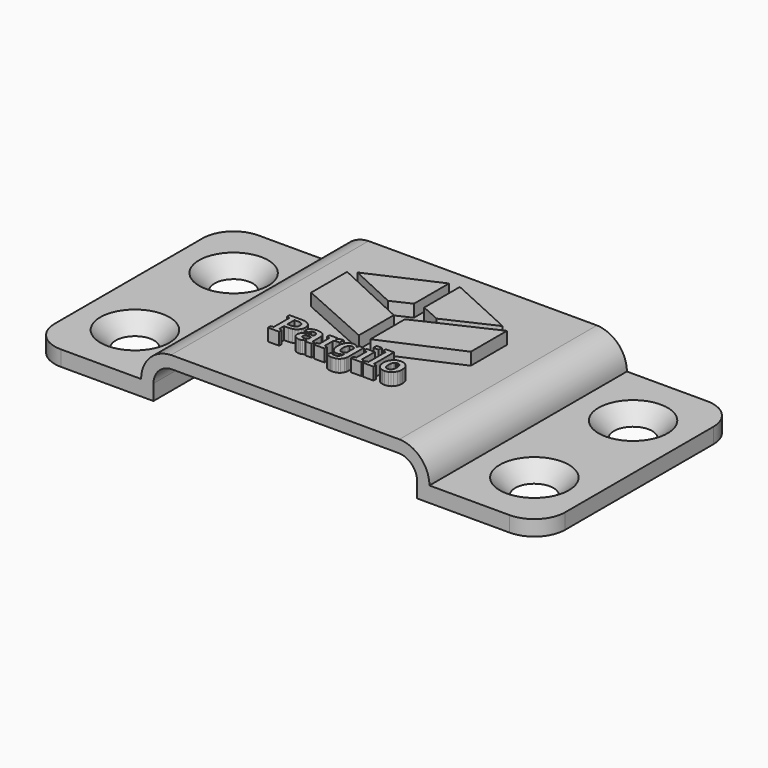
from build123d import *

# Parameters (mm, degrees)
F0_W           = 18.5
F0_H           = 2
F1_DEPTH       = 40
F2_DEPTH       = 27
F4_D           = 5
F4_CSINK_D     = 11.2
F4_CSINK_ANGLE = 90
F5_R           = 5
F6_W           = 0.8760371937
F6_H           = 0.6563073388
F7_DEPTH       = 2


with BuildPart() as f1:
    # F0 (on Front) → F1 (new body)
    with BuildSketch(Plane.XZ):
        Polygon((-23.3616464758, 2.5), (-41.3634078641, 2.5), (-41.3634078641, 0), (-21.3634078641, 0), (-21.3634078641, 2.5), align=None)
        with BuildLine():
            ThreePointArc((-18.5, 7.5), (-21.9387733601, 5.9800594319), (-23.3616464758, 2.5))
            Line((-23.3616464758, 2.5), (-21.3634078641, 2.5))
            ThreePointArc((-21.3634078641, 2.5), (-20.5256177107, 4.5668724614), (-18.5, 5.5))
            Line((-18.5, 5.5), (-18.5, 7.5))
        make_face()
        with Locations((-9.25, 6.5)):
            Rectangle(F0_W, F0_H)
        with Locations((9.25, 6.5)):
            Rectangle(F0_W, F0_H)
        with BuildLine():
            ThreePointArc((23.3616464758, 2.5), (21.9387733601, 5.9800594319), (18.5, 7.5))
            Line((18.5, 7.5), (18.5, 5.5))
            ThreePointArc((18.5, 5.5), (20.5256177107, 4.5668724614), (21.3634078641, 2.5))
            Line((21.3634078641, 2.5), (23.3616464758, 2.5))
        make_face()
        Polygon((41.3634078641, 2.5), (23.3616464758, 2.5), (21.3634078641, 2.5), (21.3634078641, 0), (41.3634078641, 0), align=None)
    extrude(amount=F1_DEPTH)

    # F0 (on Front) → F2 (join)
    with BuildSketch(Plane.XZ):
        Polygon((-23.3616464758, 2.5), (-41.3634078641, 2.5), (-41.3634078641, 0), (-21.3634078641, 0), (-21.3634078641, 2.5), align=None)
        with BuildLine():
            ThreePointArc((-18.5, 7.5), (-21.9387733601, 5.9800594319), (-23.3616464758, 2.5))
            Line((-23.3616464758, 2.5), (-21.3634078641, 2.5))
            ThreePointArc((-21.3634078641, 2.5), (-20.5256177107, 4.5668724614), (-18.5, 5.5))
            Line((-18.5, 5.5), (-18.5, 7.5))
        make_face()
        with Locations((-9.25, 6.5)):
            Rectangle(F0_W, F0_H)
        with Locations((9.25, 6.5)):
            Rectangle(F0_W, F0_H)
        with BuildLine():
            ThreePointArc((23.3616464758, 2.5), (21.9387733601, 5.9800594319), (18.5, 7.5))
            Line((18.5, 7.5), (18.5, 5.5))
            ThreePointArc((18.5, 5.5), (20.5256177107, 4.5668724614), (21.3634078641, 2.5))
            Line((21.3634078641, 2.5), (23.3616464758, 2.5))
        make_face()
        Polygon((41.3634078641, 2.5), (23.3616464758, 2.5), (21.3634078641, 2.5), (21.3634078641, 0), (41.3634078641, 0), align=None)
    extrude(amount=F2_DEPTH)

    # F4 (through all)
    with Locations(Plane.XY.offset(2.5)):
        with Locations((-32.3634078641, -10), (-32.3634078641, -30), (32.3634078641, -30), (32.3634078641, -10)):
            CounterSinkHole(F4_D / 2, F4_CSINK_D / 2, counter_sink_angle=F4_CSINK_ANGLE)

    # F5
    f5_edges = [f1.edges().sort_by_distance(p)[0] for p in [
        (-41.363408, -40, 1.25),
        (41.363408, -40, 1.25),
        (41.363408, 0, 1.25),
        (-41.363408, 0, 1.25),
    ]]
    fillet(f5_edges, radius=F5_R)

    # F6 (on face) → F7 (join)
    with BuildSketch(Plane.XY.offset(7.5)):
        Polygon((-0.9158704144, -16.8715334807), (-12.9485048711, -11.2815676831), (-12.9485048711, -18.5769462942), (-0.9158704144, -23.9458386161), align=None)
        Polygon((6.1759549685, -27.827179673), (6.1759549685, -27.8905106528), (6.2546259142, -28.4815371663), (6.3866091792, -28.8030950403), (6.582309848, -29.0822242776), (7.0011082866, -29.3983580362), (7.331355381, -29.5066843584), (7.7111781819, -29.5427919507), (8.2798523763, -29.4536272914), (8.5797421498, -29.3040351494), (8.831410473, -29.0822242776), (9.110330545, -28.6245423759), (9.2059048781, -28.2787390601), (9.2377653525, -27.8905106528), (9.2377653525, -27.827179673), (9.1590944069, -27.2378512976), (9.0271111418, -26.9165025888), (8.831410473, -26.6369053886), (8.4131686266, -26.3197825266), (8.0838539129, -26.211119413), (7.7054208201, -26.1748983751), (7.1347684188, -26.2646196266), (6.8342015172, -26.4151476944), (6.582309848, -26.638344729), (6.3033862308, -27.096888108), (6.2078118978, -27.4414967003), align=None)
        Polygon((7.0510314202, -27.8905106528), (7.0510314202, -27.827179673), (7.0812185727, -27.4779588099), (7.2069516969, -27.1224169025), (7.3802929563, -26.9350438463), (7.7054208201, -26.8494349961), (7.9706281609, -26.902286443), (8.2058078821, -27.1224169025), (8.3148077872, -27.3933851504), (8.3646068397, -27.827179673), (8.3646068397, -27.8905106528), (8.3341431636, -28.2451024537), (8.2072472226, -28.6010307851), (8.0336613462, -28.7864291796), (7.7111781819, -28.8711340106), (7.4419151625, -28.8191192247), (7.2069516969, -28.6024665803), (7.0999299986, -28.3322357286), align=None, mode=Mode.SUBTRACT)
        Polygon((4.1245154933, -25.3295659293), (4.5927584671, -25.4197586889), (4.5927584671, -28.8644159068), (4.1696101006, -28.9546086663), (4.1696101006, -29.479464516), (5.8909797401, -29.479464516), (5.8909797401, -28.9546086663), (5.4678349187, -28.8644159068), (5.4678349187, -24.8018349439), (4.1245154933, -24.8018349439), align=None)
        with Locations((3.0714482872, -25.1299886132)):
            Rectangle(F6_W, F6_H)
        Polygon((2.2112420659, -28.9546086663), (2.2112420659, -29.479464516), (3.9287722825, -29.479464516), (3.9287722825, -28.9546086663), (3.5094668841, -28.8644159068), (3.5094668841, -26.2353471288), (2.1661474587, -26.2353471288), (2.1661474587, -26.7630816594), (2.6334296904, -26.852313677), (2.6334296904, -28.8644159068), align=None)
        Polygon((-4.1522557782, -29.479464516), (-4.1522557782, -28.9546086663), (-4.4189981792, -28.9191072987), (-4.425205778, -28.86489096), (-4.4290735623, -28.7929310278), (-4.4300626657, -28.7331416764), (-4.4305129028, -28.6514041556), (-4.4305129028, -27.311920608), (-4.5034264866, -26.8799589401), (-4.8071237765, -26.4704275851), (-5.1822846742, -26.2675763013), (-5.7863077938, -26.1748983751), (-6.0973294121, -26.1963537652), (-6.4622837552, -26.2857204994), (-6.7217869119, -26.3931853444), (-7.0125655894, -26.5587024058), (-7.0154442703, -27.2783407244), (-6.3562582507, -27.2783407244), (-6.2986881779, -26.9309952582), (-6.2267211554, -26.891377944), (-6.1101416692, -26.8484777992), (-6.0009574151, -26.8247676787), (-5.8429171246, -26.8139336284), (-5.6357017322, -26.8389200114), (-5.4442410909, -26.9429885802), (-5.3517049716, -27.0767125255), (-5.3094287774, -27.3052060494), (-5.3094287774, -27.6237647066), (-5.7565602428, -27.6237647066), (-6.3128263299, -27.6718762565), (-6.8297764426, -27.8722778254), (-7.0810370709, -28.1310967636), (-7.1958333347, -28.5765619974), (-7.1414964601, -28.9337240491), (-6.9151761276, -29.2832427067), (-6.6302079895, -29.4613983118), (-6.1576399041, -29.5427919507), (-5.9168658991, -29.521244386), (-5.6466988605, -29.4314876828), (-5.4632928534, -29.3203535832), (-5.2672093059, -29.1407550925), (-5.2520359632, -29.2166572576), (-5.225471978, -29.3129902578), (-5.1998261927, -29.3875381666), (-5.1626231418, -29.479464516), align=None)
        Polygon((-5.7107282395, -28.8681879714), (-5.9215987058, -28.8951206546), (-6.0713042933, -28.8771005376), (-6.2161671738, -28.802045669), (-6.2892757422, -28.7062125383), (-6.3226748219, -28.5439393106), (-6.294809758, -28.3928794668), (-6.1787478672, -28.2301772732), (-6.026085605, -28.140604919), (-5.7565602428, -28.099682981), (-5.3094287774, -28.099682981), (-5.3094287774, -28.5947912797), (-5.4026384796, -28.6996716931), (-5.5612991755, -28.8092423712), align=None, mode=Mode.SUBTRACT)
        Polygon((0.7814771293, -5.6098430938), (0.7814771293, -12.827383875), (3.9023217428, -14.2198854926), (11.7041283916, -10.605208843), align=None)
        Polygon((-0.4320995806, -30.0122261027), (-0.6673005728, -29.9237208457), (-0.8294568098, -30.537808713), (-0.6153496, -30.6312559419), (-0.3194765082, -30.7225157987), (-0.0825702875, -30.7689469363), (0.2020220622, -30.7901612547), (0.7641199598, -30.7161344863), (1.0608864353, -30.5919399675), (1.3102610313, -30.4077930192), (1.5868767406, -30.0210642203), (1.6816604999, -29.7226350583), (1.7132550863, -29.3835143946), (1.7132550863, -26.2353471288), (0.9523615835, -26.2353471288), (0.8890341488, -26.6431413488), (0.7482340372, -26.464868753), (0.5354527224, -26.2962780262), (0.340578079, -26.2129629032), (0.0552164266, -26.1748983751), (-0.4231302916, -26.2660128798), (-0.6734656296, -26.4188772169), (-0.8817516644, -26.6455378861), (-1.1112768338, -27.1171984071), (-1.2161395214, -27.883792549), (-1.2161395214, -27.9471199836), (-1.1514046529, -28.5241820586), (-0.8817516644, -29.103335786), (-0.5366821996, -29.4049768752), (-0.2641859819, -29.5083399544), (0.0494590648, -29.5427919507), (0.259815481, -29.5242152414), (0.4961119318, -29.4468418293), (0.6580022807, -29.345499499), (0.8352999537, -29.1676204175), (0.8352999537, -29.3806357137), (0.8044640344, -29.6568543636), (0.6760188525, -29.9232387021), (0.5046451645, -30.0572675323), (0.1962647004, -30.1184997694), (-0.005026707, -30.1082825793), (-0.2475130308, -30.0657263163), align=None)
        Polygon((-0.3401058729, -27.9471199836), (-0.3401058729, -27.883792549), (-0.3114041481, -27.5138997791), (-0.1918608969, -27.1406497299), (-0.0280596994, -26.9453709368), (0.2768642204, -26.8561530999), (0.438155435, -26.8717554086), (0.6117342211, -26.93675262), (0.7235773554, -27.0204967089), (0.8352999537, -27.1641577756), (0.8352999537, -28.5736833165), (0.7504072286, -28.6847110609), (0.6117342211, -28.7881344081), (0.4772232473, -28.8385184142), (0.2711068586, -28.8615372259), (0.021289116, -28.8142623369), (-0.1961789182, -28.6173421284), (-0.2949687236, -28.3672478623), align=None, mode=Mode.SUBTRACT)
        Polygon((-8.7497396125, -25.1438768305), (-9.1446045847, -25.1136754973), (-10.7585093792, -25.1136754973), (-11.22291293, -25.1136754973), (-11.22291293, -25.6414064827), (-10.7585093792, -25.7316027875), (-10.7585093792, -28.8644159068), (-11.22291293, -28.9546086663), (-11.22291293, -29.479464516), (-9.4151899538, -29.479464516), (-9.4151899538, -28.9546086663), (-9.8824721855, -28.8644159068), (-9.8824721855, -27.8962644694), (-9.1446045847, -27.8962644694), (-8.5463600979, -27.8225177698), (-8.2293967687, -27.698794759), (-7.9620056009, -27.5153391196), (-7.6646435362, -27.1325667343), (-7.5627481588, -26.8394659681), (-7.5287853964, -26.5078504368), (-7.6126571116, -26.0051696475), (-7.7533650488, -25.733350558), (-7.9620056009, -25.4989188685), (-8.4044468017, -25.2344879206), align=None)
        Polygon((-9.1446045847, -27.2217278484), (-9.8824721855, -27.2217278484), (-9.8824721855, -25.7882121183), (-9.1446045847, -25.7882121183), (-8.8573569, -25.8279676941), (-8.5914476147, -25.9935485687), (-8.4626869124, -26.1954213846), (-8.4038618481, -26.5136077986), (-8.4401786057, -26.764318925), (-8.5914476147, -27.0221487598), (-8.7909806161, -27.159141355), align=None, mode=Mode.SUBTRACT)
        Polygon((-0.8850664016, -12.827383875), (-0.8850664016, -5.7225157987), (-11.8124965578, -10.605208843), (-3.9553072083, -14.2506965957), align=None)
        Polygon((0.8842871615, -23.8826778046), (12.9485055691, -18.6085302451), (12.9485055691, -11.2815676831), (0.8842871615, -16.8715334807), align=None)
        Polygon((-3.7885989685, -28.9546086663), (-3.7885989685, -29.479464516), (-2.0739474329, -29.479464516), (-2.0739474329, -28.9546086663), (-2.4932528313, -28.8644159068), (-2.4932528313, -27.287933964), (-2.4240404086, -27.1786043577), (-2.3018311869, -27.0749222128), (-2.1780727244, -27.0235491033), (-1.9837511281, -27.0000800546), (-1.6239337414, -27.0087160973), (-1.5308623009, -26.2113604848), (-1.5806294468, -26.1987786639), (-1.6584779122, -26.1854523567), (-1.7245422208, -26.178206022), (-1.8043228058, -26.1748983751), (-2.0011721108, -26.2022033016), (-2.2202709248, -26.3159466489), (-2.3658676562, -26.4614334799), (-2.5143643396, -26.7083867223), (-2.5537051302, -26.2353471288), (-3.8336971209, -26.2353471288), (-3.8336971209, -26.7630816594), (-3.369290025, -26.852313677), (-3.369290025, -28.8644159068), align=None)
    extrude(amount=F7_DEPTH)


solid = f1.part
